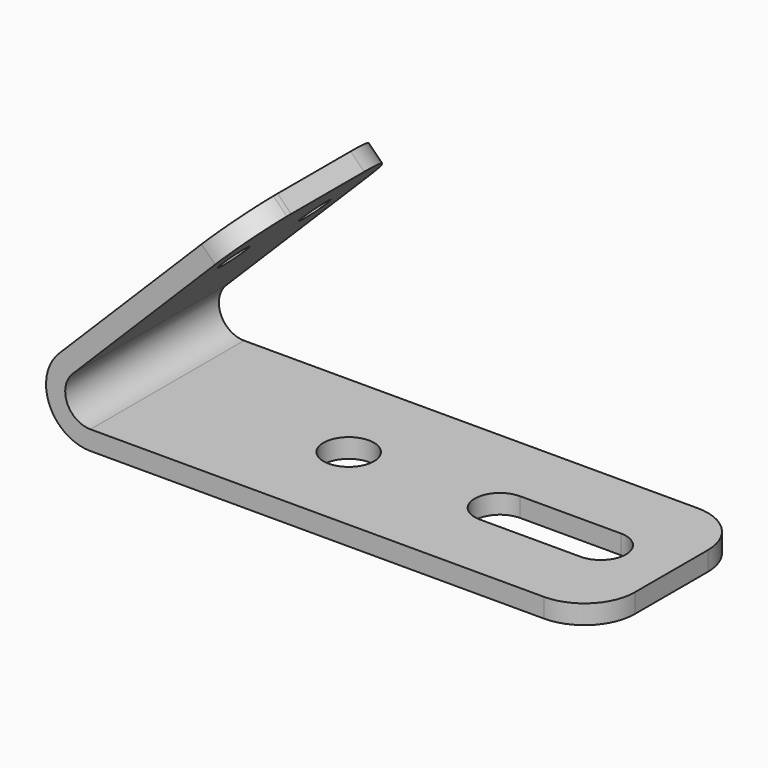
from build123d import *

# Parameters (mm, degrees)
F1_DEPTH = 241.935
F2_R     = 38.1
F3_DEPTH = 63.5
F4_R     = 63.5
F5_DEPTH = 50.8


with BuildPart() as f1:
    # F0 (on Front) → F1 (new body, symmetric)
    with BuildSketch(Plane.XZ):
        with BuildLine():
            Line((68.24813, 528.03906), (-380.764676, 79.026254))
            ThreePointArc((-380.764676, 79.026254), (-404.991199, -42.7687), (-301.738422, -111.76))
            Line((-301.738422, -111.76), (968.261578, -111.76))
            Line((968.261578, -111.76), (968.261578, -63.5))
            Line((968.261578, -63.5), (-301.738422, -63.5))
            ThreePointArc((-301.738422, -63.5), (-360.404772, -24.300398), (-346.639703, 44.901281))
            Line((-346.639703, 44.901281), (102.373103, 493.914087))
            Line((102.373103, 493.914087), (68.24813, 528.03906))
        make_face()
    extrude(amount=F1_DEPTH, both=True)

    # F2 (on face) → F3 (cut)
    with BuildSketch(Plane(origin=(-229.895465, 0, 229.895465), x_dir=(0.707107, 0, 0.707107), z_dir=(-0.707107, 0, 0.707107))):
        with BuildLine():
            Line((294.638716, -241.935), (421.638716, -241.935))
            Line((421.638716, -241.935), (421.638716, -127.635))
            Line((421.638716, -127.635), (421.00212, -127.635))
            ThreePointArc((421.00212, -127.635), (379.832906, -209.120721), (294.638716, -241.935))
        make_face()
        with Locations((231.138716, -127.635)):
            Circle(F2_R)
        with BuildLine():
            Line((421.00212, -127.635), (421.638716, -127.635))
            Line((421.638716, -127.635), (421.638716, -114.935))
            ThreePointArc((421.638716, -114.935), (421.479467, -121.292972), (421.00212, -127.635))
        make_face()
        with Locations((231.138716, 127.635)):
            Circle(F2_R)
        with BuildLine():
            Line((421.638716, 114.935), (421.638716, 241.935))
            Line((421.638716, 241.935), (294.638716, 241.935))
            ThreePointArc((294.638716, 241.935), (384.441277, 204.737561), (421.638716, 114.935))
        make_face()
    extrude(amount=-F3_DEPTH, mode=Mode.SUBTRACT)

    # F4 (on face) → F5 (cut)
    with BuildSketch(Plane.XY.offset(-63.5)):
        with Locations((155.461578, 0)):
            Circle(F4_R)
        with BuildLine():
            Line((536.461578, -63.5), (790.461578, -63.5))
            ThreePointArc((790.461578, -63.5), (853.961578, 0), (790.461578, 63.5))
            Line((790.461578, 63.5), (536.461578, 63.5))
            ThreePointArc((536.461578, 63.5), (472.961578, 0), (536.461578, -63.5))
        make_face()
        with BuildLine():
            Line((968.261578, 114.935), (968.261578, 241.935))
            Line((968.261578, 241.935), (841.261578, 241.935))
            ThreePointArc((841.261578, 241.935), (931.064139, 204.737561), (968.261578, 114.935))
        make_face()
        with BuildLine():
            Line((968.261578, -241.935), (968.261578, -114.935))
            ThreePointArc((968.261578, -114.935), (931.064139, -204.737561), (841.261578, -241.935))
            Line((841.261578, -241.935), (968.261578, -241.935))
        make_face()
    extrude(amount=-F5_DEPTH, mode=Mode.SUBTRACT)


solid = f1.part
